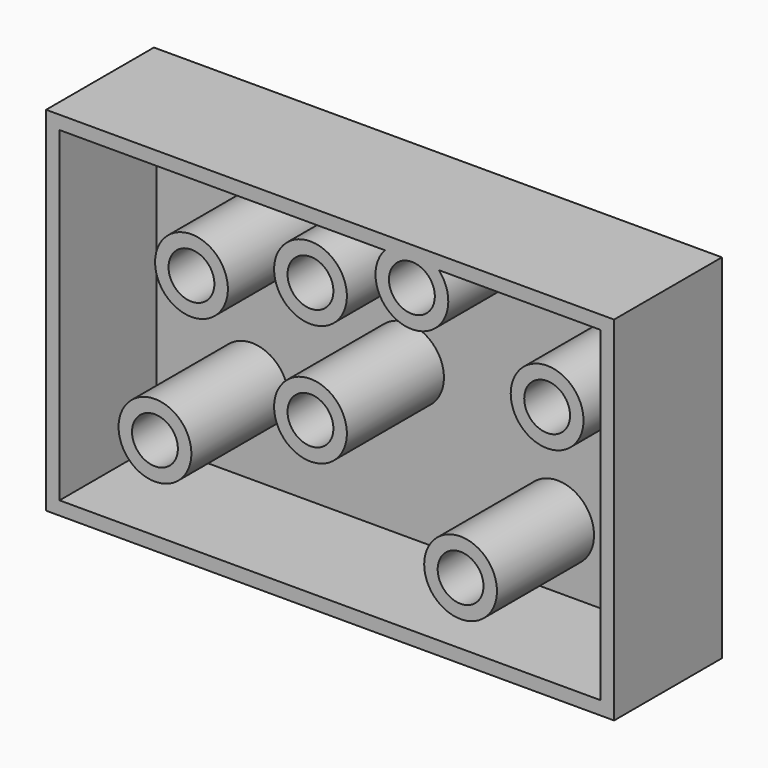
from build123d import *

# Parameters (mm, degrees)
F0_W     = 105.3343974054
F0_H     = 65.4578059912
F1_DEPTH = 25
F3_D     = 8.5
F4_T     = -2.5


with BuildPart() as f1:
    # F0 (on Front) → F1 (new body)
    with BuildSketch(Plane.XZ):
        with Locations((3.6365445703, 2.0063705742)):
            Rectangle(F0_W, F0_H)
    extrude(amount=F1_DEPTH)

    # F3 (through all)
    with Locations(Plane.XZ.offset(25)):
        with Locations((-22.0700632781, 16.4271499962), (0, 22.4462598562), (18.8097134233, 27.7129784226), (43.8893288374, 16.4271499962), (-28.8415607065, -12.6652074978), (0, 0), (27.838377282, -16.6779458523)):
            Hole(F3_D / 2)

    # F4
    f4_openings = [f1.faces().sort_by_distance(p)[0] for p in [
        (-47.79049, -25, 2.006371),
    ]]
    offset(amount=F4_T, openings=f4_openings)


solid = f1.part
